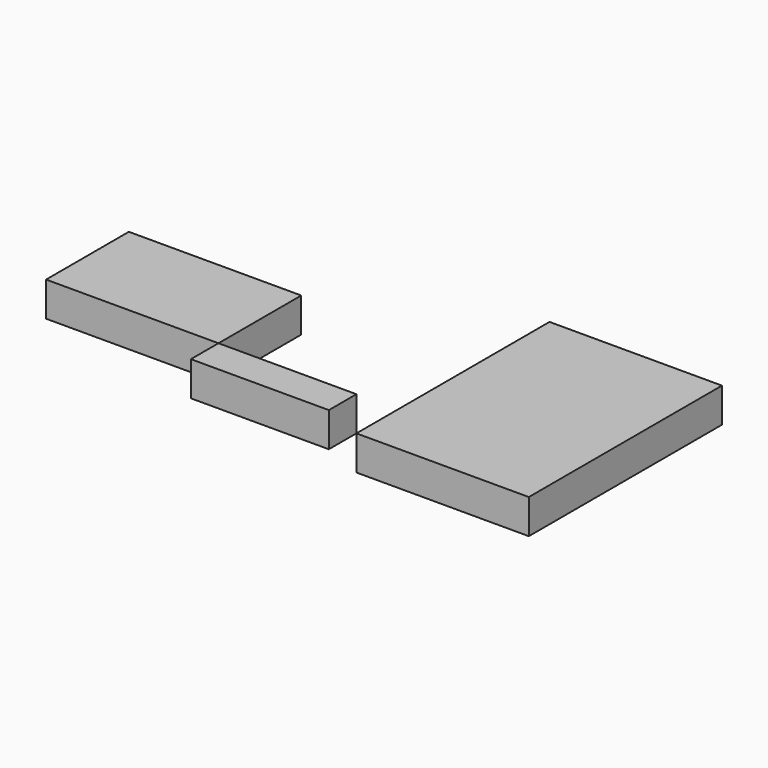
from build123d import *

# Parameters (mm, degrees)
F0_W     = 127
F0_H     = 76.2
F0_W_2   = 101.6
F0_H_2   = 25.4
F1_DEPTH = 25.4
F0_H_3   = 177.8
F2_DEPTH = 25.4


with BuildPart() as f1:
    # F0 (on Top) → F1 (new body)
    with BuildSketch(Plane.XY):
        with Locations((63.5, 38.1)):
            Rectangle(F0_W, F0_H)
        with Locations((177.8, -12.7)):
            Rectangle(F0_W_2, F0_H_2)
    extrude(amount=F1_DEPTH)


with BuildPart() as f2:
    # F0 (on Top) → F2 (new body)
    with BuildSketch(Plane.XY):
        with Locations((292.1, 88.9)):
            Rectangle(F0_W, F0_H_3)
    extrude(amount=-F2_DEPTH)


solid = Compound([f1.part, f2.part])
